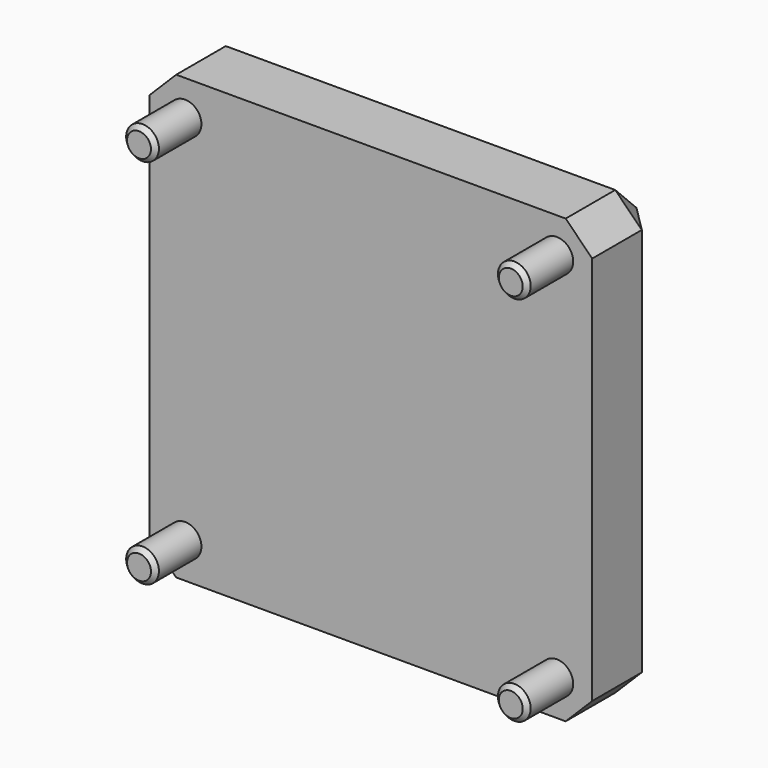
from build123d import *

# Parameters (mm, degrees)
F0_W     = 50
F0_H     = 50
F1_DEPTH = 10
F2_R     = 1.85
F3_DEPTH = 6.5
F4_SIZE  = 0.5
F5_SIZE  = 3


with BuildPart() as f1:
    # F0 (on Front) → F1 (new body)
    with BuildSketch(Plane.XZ):
        with Locations((25, 25)):
            Rectangle(F0_W, F0_H)
    extrude(amount=F1_DEPTH)

    # F2 (on face) → F3 (join)
    with BuildSketch(Plane.XZ.offset(10)):
        with Locations((4, 46)):
            Circle(F2_R)
        with Locations((46, 46)):
            Circle(F2_R)
        with Locations((46, 4)):
            Circle(F2_R)
        with Locations((4, 4)):
            Circle(F2_R)
    extrude(amount=F3_DEPTH)

    # F4
    f4_edges = [f1.edges().sort_by_distance(p)[0] for p in [
        (2.15, -16.5, 4),
        (44.15, -16.5, 4),
        (44.15, -16.5, 46),
        (2.15, -16.5, 46),
    ]]
    chamfer(f4_edges, length=F4_SIZE)

    # F5
    f5_edges = [f1.edges().sort_by_distance(p)[0] for p in [
        (0, -5, 50),
        (50, -5, 50),
        (50, -5, 0),
        (0, -5, 0),
        (0, 0, 25),
        (25, 0, 0),
        (50, 0, 25),
        (25, 0, 50),
    ]]
    chamfer(f5_edges, length=F5_SIZE)


solid = f1.part
